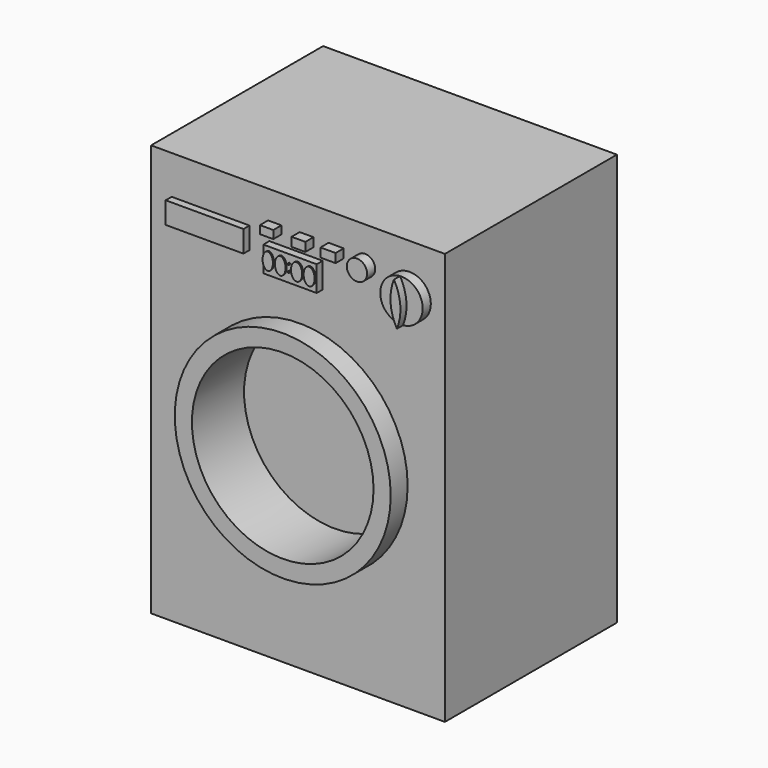
from build123d import *

# Parameters (mm, degrees)
F0_W      = 69.422539
F0_H      = 97.34625
F1_DEPTH  = 50.8
F2_W      = 18.373456
F2_H      = 5.127479
F2_W_2    = 12.605046
F2_H_2    = 5.982056
F3_DEPTH  = 1.778
F4_R      = 25.511766
F4_R_2    = 21.456688
F5_DEPTH  = 5
F6_W      = 3.154204
F6_H      = 1.892522
F6_W_2    = 3.259345
F6_H_2    = 2.102803
F6_W_3    = 3.574766
F6_R      = 2.397568
F6_R_2    = 5.015971
F7_DEPTH  = 2.4
F9_DEPTH  = 1.8
F5_FACE_R = 21.456688
F10_DEPTH = 10.4
F11_R     = 0.180227
F11_R_2   = 0.196058
F12_DEPTH = 0.32


with BuildPart() as f1:
    # F0 (on Front) → F1 (new body)
    with BuildSketch(Plane.XZ):
        with Locations((-0.394358, 2.420751)):
            Rectangle(F0_W, F0_H)
    extrude(amount=F1_DEPTH)

    # F2 (on face) → F3 (join)
    with BuildSketch(Plane.XZ.offset(50.8)):
        with Locations((-21.04402, 39.417478)):
            Rectangle(F2_W, F2_H)
        with Locations((-0.854581, 37.281029)):
            Rectangle(F2_W_2, F2_H_2)
    extrude(amount=F3_DEPTH)

    # F4 (on face) → F5 (join)
    with BuildSketch(Plane.XZ.offset(50.8)):
        Circle(F4_R)
        Circle(F4_R_2, mode=Mode.SUBTRACT)
    extrude(amount=F5_DEPTH)

    # F6 (on face) → F7 (join)
    with BuildSketch(Plane.XZ.offset(50.8)):
        with Locations((-5.887851, 43.528039)):
            Rectangle(F6_W, F6_H)
        with Locations((1.629672, 43.422899)):
            Rectangle(F6_W_2, F6_H_2)
        with Locations((8.621496, 43.422899)):
            Rectangle(F6_W_3, F6_H_2)
        with Locations((15.455607, 42.581778)):
            Circle(F6_R)
        with Locations((25.969626, 39.637852)):
            Circle(F6_R_2)
    extrude(amount=F7_DEPTH)

    # F8 (on face) → F9 (join)
    with BuildSketch(Plane.XZ.offset(53.2)):
        with BuildLine():
            ThreePointArc((25.634725, 44.642631), (24.838576, 39.558498), (26.33684, 34.635341))
            ThreePointArc((26.33684, 34.635341), (27.140133, 39.719976), (25.634725, 44.642631))
        make_face()
    extrude(amount=F9_DEPTH)

    # F5_face (on face) → F10 (cut)
    with BuildSketch(Plane.XZ.offset(50.8)):
        Circle(F5_FACE_R)
    extrude(amount=-F10_DEPTH, mode=Mode.SUBTRACT)


with BuildPart() as f12:
    # F11 (on face) → F12 (new body)
    with BuildSketch(Plane.XZ.offset(52.578)):
        with Locations((-0.966582, 38.33032)):
            Circle(F11_R)
        with Locations((-0.938855, 36.680557)):
            Circle(F11_R_2)
        with BuildLine():
            add(Edge.make_bspline(
                [(-5.86041, 39.356221), (-7.973697, 39.356221), (-6.917054, 36.340903), (-5.86041, 33.325586), (-4.803766, 36.340903), (-3.747122, 39.356221), (-5.86041, 39.356221)],
                knots=[0, 0, 0, 2.094395, 2.094395, 4.18879, 4.18879, 6.283185, 6.283185, 6.283185], degree=2, weights=[1, 0.5, 1, 0.5, 1, 0.5, 1]))
        make_face()
        with BuildLine():
            add(Edge.make_bspline(
                [(-2.907477, 39.370082), (-5.093549, 39.370082), (-4.000513, 36.333973), (-2.907477, 33.297863), (-1.814441, 36.333973), (-0.721405, 39.370082), (-2.907477, 39.370082)],
                knots=[0, 0, 0, 2.094395, 2.094395, 4.18879, 4.18879, 6.283185, 6.283185, 6.283185], degree=2, weights=[1, 0.5, 1, 0.5, 1, 0.5, 1]))
        make_face()
        with BuildLine():
            add(Edge.make_bspline(
                [(0.946585, 39.370082), (-1.339115, 39.370082), (-0.196265, 36.333973), (0.946585, 33.297863), (2.089435, 36.333973), (3.232285, 39.370082), (0.946585, 39.370082)],
                knots=[0, 0, 0, 2.094395, 2.094395, 4.18879, 4.18879, 6.283185, 6.283185, 6.283185], degree=2, weights=[1, 0.5, 1, 0.5, 1, 0.5, 1]))
        make_face()
        with BuildLine():
            add(Edge.make_bspline(
                [(3.913382, 39.370082), (1.656169, 39.370082), (2.784775, 36.333973), (3.913382, 33.297863), (5.041988, 36.333973), (6.170594, 39.370082), (3.913382, 39.370082)],
                knots=[0, 0, 0, 2.094395, 2.094395, 4.18879, 4.18879, 6.283185, 6.283185, 6.283185], degree=2, weights=[1, 0.5, 1, 0.5, 1, 0.5, 1]))
        make_face()
    extrude(amount=F12_DEPTH)


solid = Compound([f1.part, f12.part])
